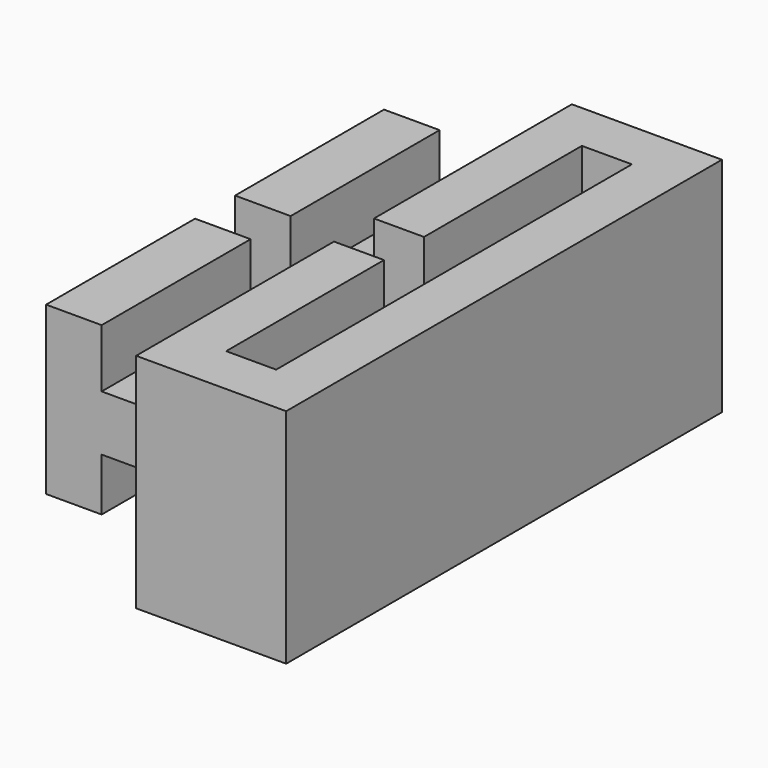
from build123d import *

# Parameters (mm, degrees)
F0_W     = 5.4
F0_H     = 19.6
F0_W_2   = 1.8
F0_H_2   = 16
F1_DEPTH = 8
F2_W     = 15.2
F2_H     = 2
F3_DEPTH = 3
F4_W     = 15.2
F4_H     = 6
F5_DEPTH = 2
F6_W     = 9.064092
F6_H     = 1.8
F7_DEPTH = 8.001


with BuildPart() as f1:
    # F0 (on Top) → F1 (new body)
    with BuildSketch(Plane.XY):
        Rectangle(F0_W, F0_H)
        Rectangle(F0_W_2, F0_H_2, mode=Mode.SUBTRACT)
    extrude(amount=F1_DEPTH)

    # F2 (on face) → F3 (join)
    with BuildSketch(Plane(origin=(-2.7, 0, 0), x_dir=(0, -1, 0), z_dir=(-1, 0, 0))):
        with Locations((0, 4)):
            Rectangle(F2_W, F2_H)
    extrude(amount=F3_DEPTH)

    # F4 (on face) → F5 (join)
    with BuildSketch(Plane(origin=(-5.7, 0, 0), x_dir=(0, -1, 0), z_dir=(-1, 0, 0))):
        with Locations((0, 4.1)):
            Rectangle(F4_W, F4_H)
    extrude(amount=F5_DEPTH)

    # F6 (on face) → F7 (cut, through all)
    with BuildSketch(Plane.XY.offset(8)):
        with Locations((-5.432046, 0)):
            Rectangle(F6_W, F6_H)
    extrude(amount=-F7_DEPTH, mode=Mode.SUBTRACT)


solid = f1.part
